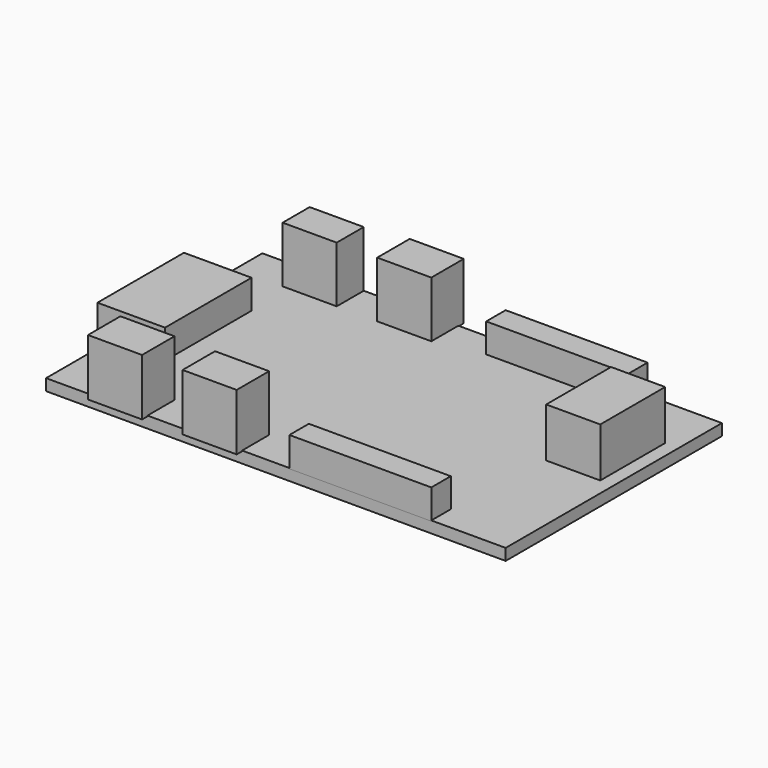
from build123d import *

# Parameters (mm, degrees)
F0_W     = 4
F0_H     = 6
F0_W_2   = 10.5
F0_H_2   = 1.8
F0_H_3   = 8
F0_H_4   = 2.5
F1_DEPTH = 0.85
F2_START = 0.8
F2_DEPTH = 2.2
F3_START = 0.8
F3_DEPTH = 3.7
F4_START = 0.8
F0_W_3   = 1
F4_DEPTH = 2.2
F5_START = 0.8
F0_H_5   = 0.5
F5_DEPTH = 4.2


with BuildPart() as f1:
    # F0 (on Top) → F1 (new body)
    with BuildSketch(Plane.XY):
        Polygon((1, 8.2), (1, 10), (-2.5, 10), (-2.5, 7.5), (-6.5, 7.5), (-6.5, 10), (-9.5, 10), (-9.5, 7.5), (-13.5, 7.5), (-13.5, 10), (-17, 10), (-17, 4), (-13, 4), (-13, -4), (-17, -4), (-17, -10), (-13.5, -10), (-13.5, -7.5), (-9.5, -7.5), (-9.5, -10), (-6.5, -10), (-6.5, -7.5), (-2.5, -7.5), (-2.5, -10), (1, -10), (1, -8.2), (11.5, -8.2), (11.5, -10), (17, -10), (17, 10), (11.5, 10), (11.5, 8.2), align=None)
        with Locations((14, 3)):
            Rectangle(F0_W, F0_H, mode=Mode.SUBTRACT)
        with Locations((6.25, -9.1)):
            Rectangle(F0_W_2, F0_H_2)
        with Locations((6.25, 9.1)):
            Rectangle(F0_W_2, F0_H_2)
        with Locations((-15, 0)):
            Rectangle(F0_W, F0_H_3)
        with Locations((14, 3)):
            Rectangle(F0_W, F0_H)
        with Locations((-4.5, -8.75)):
            Rectangle(F0_W, F0_H_4)
        with Locations((-11.5, -8.75)):
            Rectangle(F0_W, F0_H_4)
        with Locations((-11.5, 8.75)):
            Rectangle(F0_W, F0_H_4)
        with Locations((-4.5, 8.75)):
            Rectangle(F0_W, F0_H_4)
    extrude(amount=F1_DEPTH)


with BuildPart() as f2:
    # F0 (on Top) → F2 (new body)
    with BuildSketch(Plane.XY.offset(F2_START)):
        with Locations((6.25, -9.1)):
            Rectangle(F0_W_2, F0_H_2)
    extrude(amount=F2_DEPTH)


with BuildPart() as f2b:
    # F0 (on Top) → F2, piece 2 (new body)
    with BuildSketch(Plane.XY.offset(F2_START)):
        with Locations((6.25, 9.1)):
            Rectangle(F0_W_2, F0_H_2)
    extrude(amount=F2_DEPTH)


with BuildPart() as f3:
    # F0 (on Top) → F3 (new body)
    with BuildSketch(Plane.XY.offset(F3_START)):
        with Locations((14, 3)):
            Rectangle(F0_W, F0_H)
    extrude(amount=F3_DEPTH)


with BuildPart() as f4:
    # F0 (on Top) → F4 (new body)
    with BuildSketch(Plane.XY.offset(F4_START)):
        with Locations((-15, 0)):
            Rectangle(F0_W, F0_H_3)
        with Locations((-17.5, 0)):
            Rectangle(F0_W_3, F0_H_3)
    extrude(amount=F4_DEPTH)


with BuildPart() as f5:
    # F0 (on Top) → F5 (new body)
    with BuildSketch(Plane.XY.offset(F5_START)):
        with Locations((-11.5, -8.75)):
            Rectangle(F0_W, F0_H_4)
        with Locations((-11.5, -10.25)):
            Rectangle(F0_W, F0_H_5)
    extrude(amount=F5_DEPTH)


with BuildPart() as f5b:
    # F0 (on Top) → F5, piece 2 (new body)
    with BuildSketch(Plane.XY.offset(F5_START)):
        with Locations((-4.5, -8.75)):
            Rectangle(F0_W, F0_H_4)
        with Locations((-4.5, -10.25)):
            Rectangle(F0_W, F0_H_5)
    extrude(amount=F5_DEPTH)


with BuildPart() as f5c:
    # F0 (on Top) → F5, piece 3 (new body)
    with BuildSketch(Plane.XY.offset(F5_START)):
        with Locations((-4.5, 8.75)):
            Rectangle(F0_W, F0_H_4)
        with Locations((-4.5, 10.25)):
            Rectangle(F0_W, F0_H_5)
    extrude(amount=F5_DEPTH)


with BuildPart() as f5d:
    # F0 (on Top) → F5, piece 4 (new body)
    with BuildSketch(Plane.XY.offset(F5_START)):
        with Locations((-11.5, 8.75)):
            Rectangle(F0_W, F0_H_4)
    extrude(amount=F5_DEPTH)


solid = Compound([f1.part, f2.part, f2b.part, f3.part, f4.part, f5.part, f5b.part, f5c.part, f5d.part])
